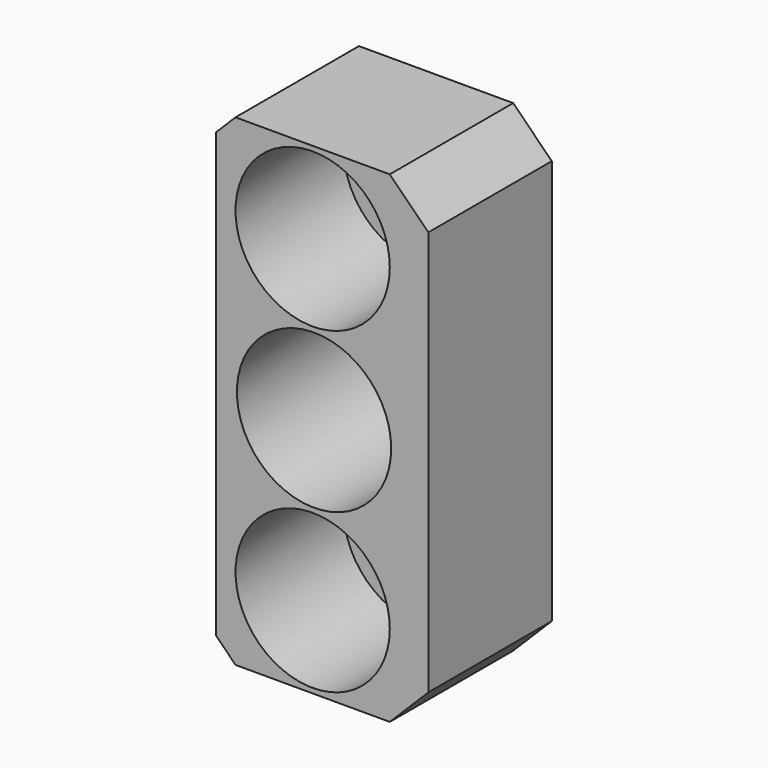
from build123d import *

# Parameters (mm, degrees)
F0_W      = 12
F0_H      = 25
F1_DEPTH  = 8
F2_SIZE   = 2
F3_SIZE   = 2
F4_R      = 2.25
F5_DEPTH  = 25
F6_R      = 4
F7_DEPTH  = 7
F8_R      = 4
F9_DEPTH  = 25
F10_W     = 8
F10_H     = 27.262656
F11_DEPTH = 1


with BuildPart() as f1:
    # F0 (on Front) → F1 (new body)
    with BuildSketch(Plane.XZ):
        with Locations((1.81407, 3.270565)):
            Rectangle(F0_W, F0_H)
    extrude(amount=F1_DEPTH)

    # F2
    f2_edges = [f1.edges().sort_by_distance(p)[0] for p in [
        (-4.18593, -4, 15.770565),
    ]]
    chamfer(f2_edges, length=F2_SIZE)

    # F3
    f3_edges = [f1.edges().sort_by_distance(p)[0] for p in [
        (7.81407, -4, 15.770565),
        (7.81407, -4, -9.229435),
        (-4.18593, -4, -9.229435),
    ]]
    chamfer(f3_edges, length=F3_SIZE)

    # F4 (on face) → F5 (cut)
    with BuildSketch(Plane.XZ.offset(8)):
        with Locations((1.81407, -4.979435)):
            Circle(F4_R)
        with Locations((1.81407, 11.520565)):
            Circle(F4_R)
    extrude(amount=-F5_DEPTH, mode=Mode.SUBTRACT)

    # F6 (on face) → F7 (cut)
    with BuildSketch(Plane.XZ.offset(8)):
        with Locations((1.81407, 11.520565)):
            Circle(F6_R)
        with Locations((1.81407, -4.979435)):
            Circle(F6_R)
    extrude(amount=-F7_DEPTH, mode=Mode.SUBTRACT)

    # F8 (on Front) → F9 (cut)
    with BuildSketch(Plane.XZ):
        with Locations((1.887019, 3.270565)):
            Circle(F8_R)
    extrude(amount=F9_DEPTH, mode=Mode.SUBTRACT)

    # F10 (on face) → F11 (cut)
    with BuildSketch(Plane(origin=(-4.18593, 0, 0), x_dir=(0, -1, 0), z_dir=(-1, 0, 0))):
        with Locations((4, 2.890538)):
            Rectangle(F10_W, F10_H)
    extrude(amount=-F11_DEPTH, mode=Mode.SUBTRACT)


solid = f1.part
